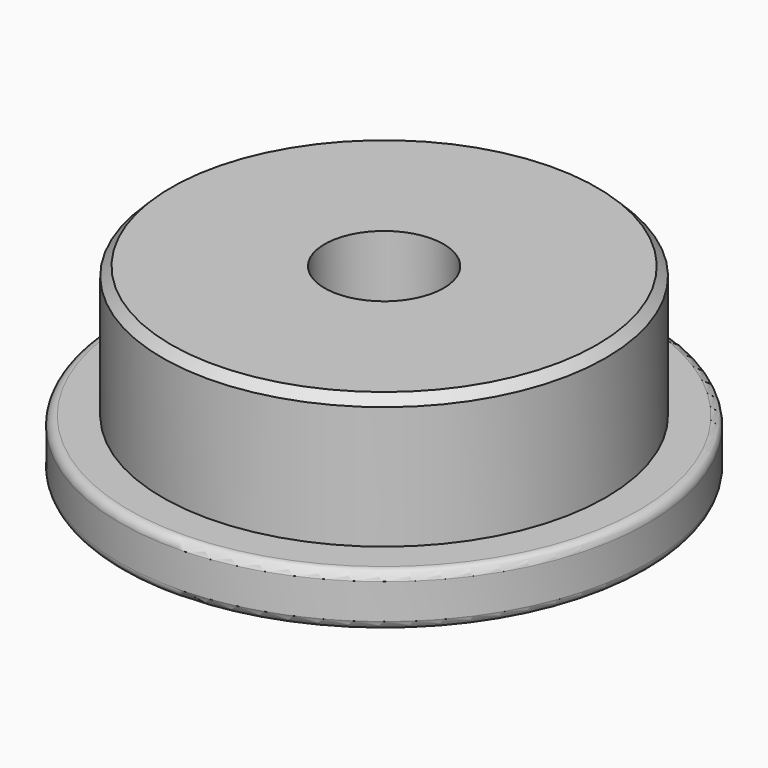
from build123d import *

# Parameters (mm, degrees)
F0_R     = 30.095245
F1_DEPTH = 6
F2_R     = 25.269078
F3_DEPTH = 15
F4_R     = 6.785687
F5_DEPTH = 14
F6_R     = 1
F7_R     = 1
F8_SIZE  = 1


with BuildPart() as f1:
    # F0 (on Top) → F1 (new body)
    with BuildSketch(Plane.XY):
        Circle(F0_R)
    extrude(amount=F1_DEPTH)

    # F2 (on face) → F3 (join)
    with BuildSketch(Plane.XY.offset(6)):
        Circle(F2_R)
    extrude(amount=F3_DEPTH)

    # F4 (on face) → F5 (cut)
    with BuildSketch(Plane.XY.offset(21)):
        Circle(F4_R)
    extrude(amount=-F5_DEPTH, mode=Mode.SUBTRACT)

    # F6
    f6_edges = [f1.edges().sort_by_distance(p)[0] for p in [
        (-30.095245, 0, 6),
    ]]
    fillet(f6_edges, radius=F6_R)

    # F7
    f7_edges = [f1.edges().sort_by_distance(p)[0] for p in [
        (-30.095245, 0, 0),
    ]]
    fillet(f7_edges, radius=F7_R)

    # F8
    f8_edges = [f1.edges().sort_by_distance(p)[0] for p in [
        (-25.269078, 0, 21),
    ]]
    chamfer(f8_edges, length=F8_SIZE)


solid = f1.part
